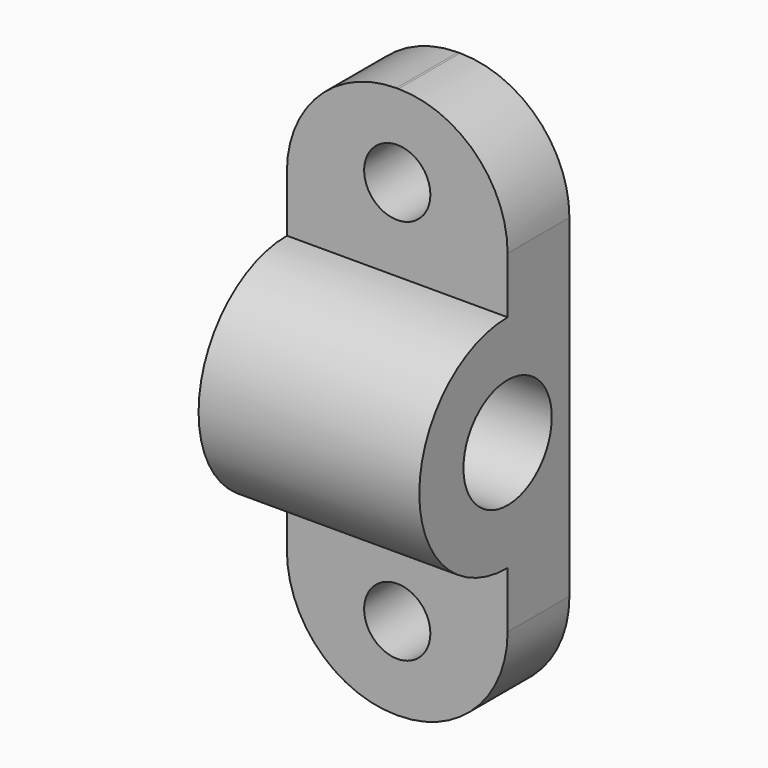
from build123d import *

# Parameters (mm, degrees)
PAD030_DEPTH             = 20
SKETCH021_R              = 5
POCKET001006_DEPTH       = 20.001
FILLET_R                 = 9.9
SKETCH024_R              = 3
POCKET002_DEPTH          = 7.001
CLONE076_ROLL_ANGLE      = 90
CLONE076_PLACEMENT_ANGLE = -90


with BuildPart() as part:
    # Sketch020 → Pad030 (new body)
    with BuildSketch(Plane.XY):
        with BuildLine():
            Line((18, 0), (25, 0))
            Line((25, 0), (25, 15))
            ThreePointArc((25, 15), (35, 25), (25, 35))
            Line((25, 35), (25, 50))
            Line((25, 50), (18, 50))
            Line((18, 50), (18, 0))
        make_face()
    extrude(amount=PAD030_DEPTH)

    # Sketch021 → Pocket001006 (cut, through all)
    with BuildSketch(Plane(origin=(0, 0, 0), x_dir=(1, 0, 0), z_dir=(0, 0, -1))):
        with Locations((25, -25)):
            Circle(SKETCH021_R)
    extrude(amount=-POCKET001006_DEPTH, mode=Mode.SUBTRACT)

    # Fillet
    fillet_edges = [part.edges().sort_by_distance(p)[0] for p in [
        (21.5, 0, 0),
        (21.5, 50, 0),
        (21.5, 50, 20),
        (21.5, 0, 20),
    ]]
    fillet(fillet_edges, radius=FILLET_R)

    # Sketch024 → Pocket002 (cut, through all)
    with BuildSketch(Plane.YZ.offset(25)):
        with Locations((7.5, 10)):
            Circle(SKETCH024_R)
        with Locations((42.5, 10)):
            Circle(SKETCH024_R)
    extrude(amount=-POCKET002_DEPTH, mode=Mode.SUBTRACT)


with BuildPart() as part_1:
    # Clone076 roll: moved
    add(part.part.rotate(Axis((0, 0, 0), (1, 0, 0)), CLONE076_ROLL_ANGLE))


with BuildPart() as part_2:
    # Clone076 placement: moved
    add(part_1.part.moved(Location((120.75, 1500, 0))).rotate(Axis((120.75, 1500, 0), (0, 0, 1)), CLONE076_PLACEMENT_ANGLE))


with BuildPart() as part_3:
    # Clone083 placement: moved
    add(part_2.part.moved(Location((824.5, 0, 0))))


solid = part_3.part
